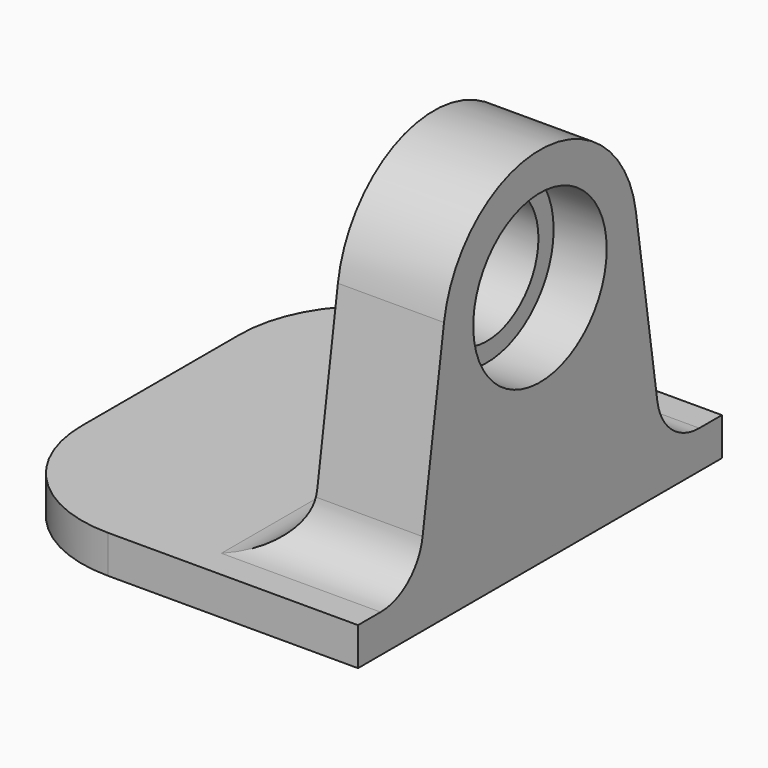
from build123d import *

# Parameters (mm, degrees)
F0_R     = 8.5
F1_DEPTH = 14
F2_R     = 11
F3_DEPTH = 7
F4_W     = 50
F4_H     = 60
F5_DEPTH = 5
F6_R     = 7
F7_R     = 17


with BuildPart() as f1:
    # F0 (on Right) → F1 (new body)
    with BuildSketch(Plane.YZ):
        with BuildLine():
            Line((21, -32), (15.821561, 2.382899))
            ThreePointArc((15.821561, 2.382899), (0, 16), (-15.821561, 2.382899))
            Line((-15.821561, 2.382899), (-21, -32))
            Line((-21, -32), (21, -32))
        make_face()
        Circle(F0_R, mode=Mode.SUBTRACT)
    extrude(amount=F1_DEPTH)

    # F2 (on face) → F3 (cut)
    with BuildSketch(Plane.YZ.offset(14)):
        Circle(F2_R)
    extrude(amount=-F3_DEPTH, mode=Mode.SUBTRACT)

    # F4 (on face) → F5 (join)
    with BuildSketch(Plane(origin=(0, 0, -32), x_dir=(1, 0, 0), z_dir=(0, 0, -1))):
        with Locations((-11, 0)):
            Rectangle(F4_W, F4_H)
    extrude(amount=-F5_DEPTH)

    # F6
    f6_edges = [f1.edges().sort_by_distance(p)[0] for p in [
        (7, -20.246946, -27),
        (0, 0, -27),
        (7, 20.246946, -27),
    ]]
    fillet(f6_edges, radius=F6_R)

    # F7
    f7_edges = [f1.edges().sort_by_distance(p)[0] for p in [
        (-36, -30, -29.5),
        (-36, 30, -29.5),
    ]]
    fillet(f7_edges, radius=F7_R)


solid = f1.part
